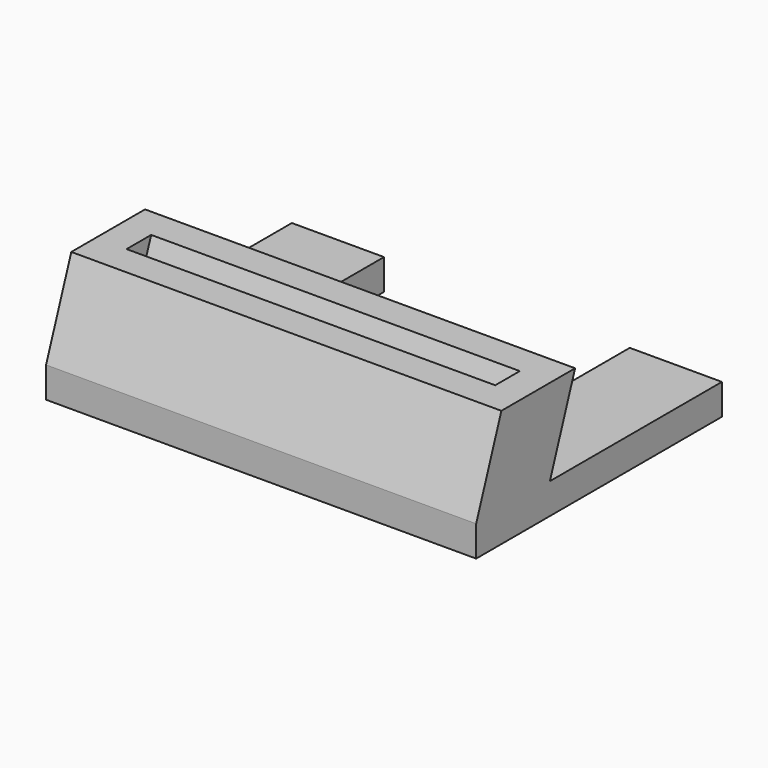
from build123d import *

# Parameters (mm, degrees)
F1_DEPTH = 5
F3_W     = 70
F3_H     = 15
F3_W_2   = 60
F3_H_2   = 5


with BuildPart() as f1:
    # F0 (on Top) → F1 (new body)
    with BuildSketch(Plane.XY):
        Polygon((0, 50), (0, 0), (70, 0), (70, 50), (55, 50), (55, 15), (15, 15), (15, 50), align=None)
    extrude(amount=F1_DEPTH)

    # F4: sweep along a path in F2
    with BuildLine(Plane(origin=(0, 0, 0), x_dir=(0, -1, 0), z_dir=(-1, 0, 0))) as f4_path:
        Line((0, 5), (-5.1303021499, 19.0953893118))
    # F3 (on face) → F4 (sweep)
    with BuildSketch(Plane.XY.offset(5)):
        with Locations((35, 7.5)):
            Rectangle(F3_W, F3_H)
        with Locations((35, 7.5)):
            Rectangle(F3_W_2, F3_H_2, mode=Mode.SUBTRACT)
    sweep(path=f4_path.line)


solid = f1.part
